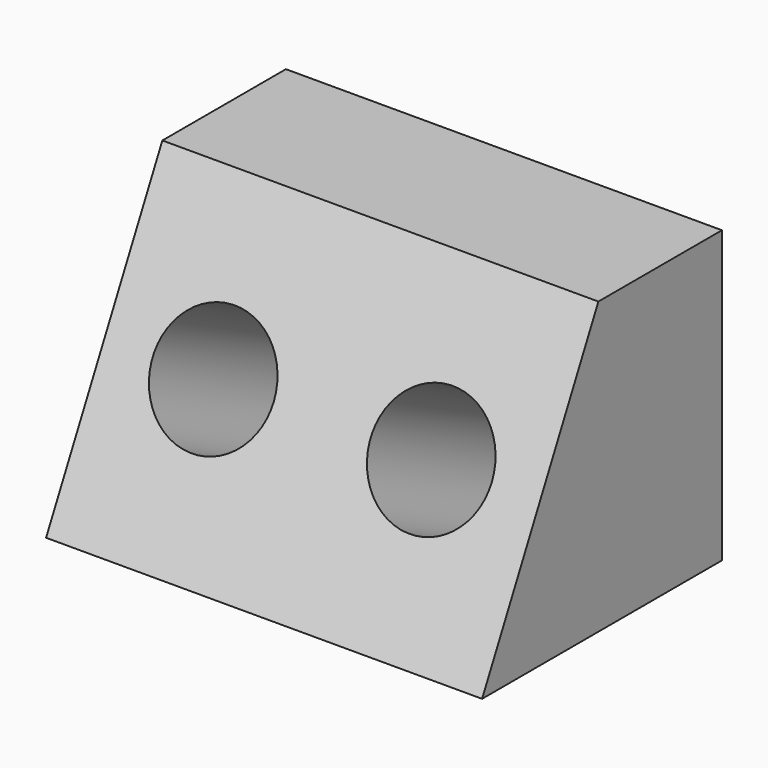
from build123d import *

# Parameters (mm, degrees)
F0_W      = 914.4
F0_H      = 609.6
F1_DEPTH  = 609.6
F3_DEPTH  = 914.401
F4_R      = 127
F5_DEPTH  = 381
F6_W      = 203.2
F6_H      = 203.2
F7_DEPTH  = 38.1
F8_R      = 12.7
F10_DEPTH = 19.05
F11_W     = 76.2
F11_H     = 95.25
F12_DEPTH = 6.35


with BuildPart() as f1:
    # F0 (on Top) → F1 (new body)
    with BuildSketch(Plane.XY):
        with Locations((457.2, 304.8)):
            Rectangle(F0_W, F0_H)
    extrude(amount=F1_DEPTH)

    # F2 (on face) → F3 (cut, through all)
    with BuildSketch(Plane(origin=(0, 0, 0), x_dir=(0, -1, 0), z_dir=(-1, 0, 0))):
        Polygon((0, 609.6), (-304.8, 609.6), (0, 0), align=None)
    extrude(amount=-F3_DEPTH, mode=Mode.SUBTRACT)

    # F4 (on face) → F5 (cut)
    with BuildSketch(Plane(origin=(0, 0, 0), x_dir=(1, 0, 0), z_dir=(0, -0.894427191, 0.4472135955))):
        with Locations((228.6, 340.776759771)):
            Circle(F4_R)
        with Locations((685.8, 340.776759771)):
            Circle(F4_R)
    extrude(amount=-F5_DEPTH, mode=Mode.SUBTRACT)

    # F6 (on face) → F7 (join)
    with BuildSketch(Plane(origin=(0, 609.6, 0), x_dir=(-1, 0, 0), z_dir=(0, 1, 0))):
        with Locations((-228.6, 203.2)):
            Rectangle(F6_W, F6_H)
    extrude(amount=F7_DEPTH)

    # F8
    f8_edges = [f1.edges().sort_by_distance(p)[0] for p in [
        (127, 647.7, 203.2),
        (228.6, 647.7, 304.8),
        (330.2, 647.7, 203.2),
        (228.6, 647.7, 101.6),
    ]]
    fillet(f8_edges, radius=F8_R)

    # F9 (on face) → F10 (join)
    with BuildSketch(Plane(origin=(0, 609.6, 0), x_dir=(-1, 0, 0), z_dir=(0, 1, 0))):
        Polygon((0, 609.6), (-914.4, 609.6), (-914.4, 0), (-229.87, 0), (-229.87, 95.25), (-336.55, 95.25), (-336.55, 311.15), (-120.65, 311.15), (-120.65, 95.25), (-153.67, 95.25), (-153.67, 0), (0, 0), align=None)
    extrude(amount=F10_DEPTH)

    # F11 (on face) → F12 (join)
    with BuildSketch(Plane(origin=(0, 628.65, 0), x_dir=(-1, 0, 0), z_dir=(0, 1, 0))):
        with Locations((-191.77, 47.625)):
            Rectangle(F11_W, F11_H)
    extrude(amount=-F12_DEPTH)


solid = f1.part
